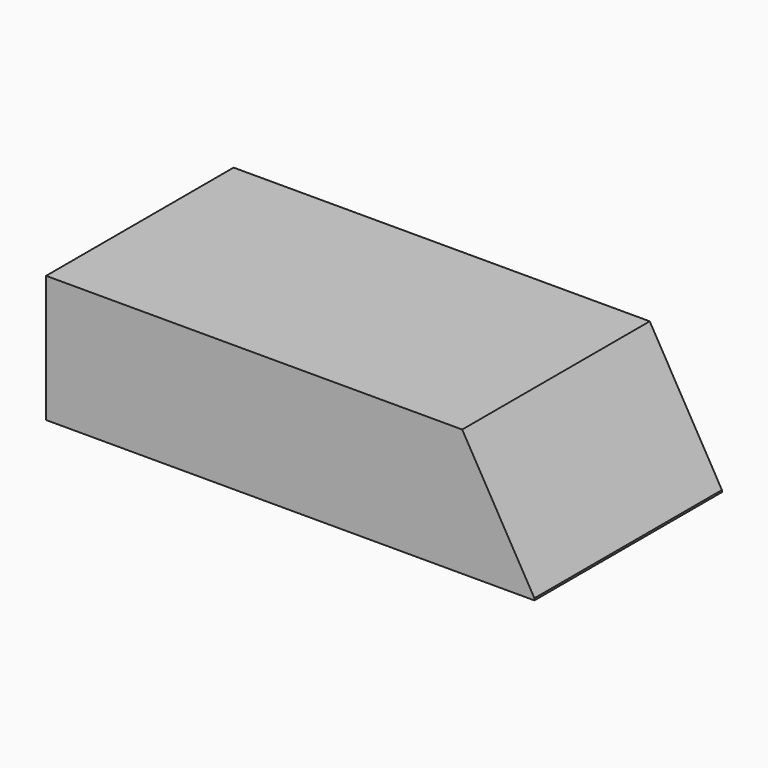
from build123d import *

# Parameters (mm, degrees)
BOX004_W               = 250
BOX004_H               = 120
BOX004_DEPTH           = 65
BOX004_PLACEMENT_ANGLE = 60
BOX005_W               = 250
BOX005_H               = 120
BOX005_DEPTH           = 65


with BuildPart() as box004:
    # Box004 → Box004 (new body)
    with BuildSketch(Plane.XY):
        with Locations((125, 60)):
            Rectangle(BOX004_W, BOX004_H)
    extrude(amount=BOX004_DEPTH)


with BuildPart() as box004_1:
    # Box004 placement: moved
    add(box004.part.moved(Location((187.927513, 0, 108.5))).rotate(Axis((187.927513, 0, 108.5), (0, 1, 0)), BOX004_PLACEMENT_ANGLE))


with BuildPart() as cut002:
    # Box005 → Box005 (new body)
    with BuildSketch(Plane.XY):
        with Locations((125, 60)):
            Rectangle(BOX005_W, BOX005_H)
    extrude(amount=BOX005_DEPTH)

    # Cut002: cut Box004
    add(box004_1.part, mode=Mode.SUBTRACT)


solid = cut002.part
